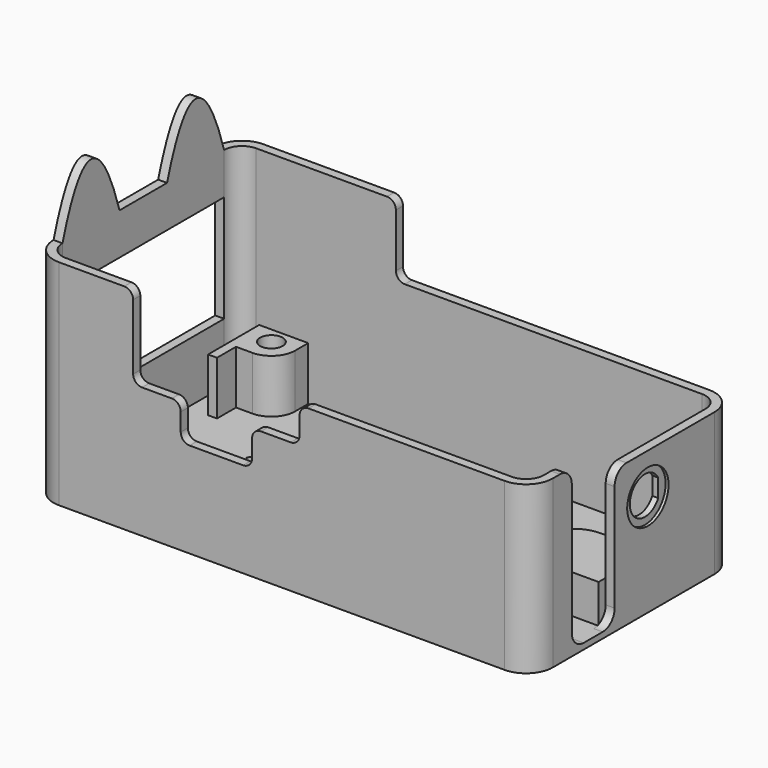
from build123d import *

# Parameters (mm, degrees)
PAD_DEPTH                       = 36
POCKET_DEPTH                    = 35
SKETCH002_R                     = 1.7
PAD001_DEPTH                    = 9
SKETCH011_W                     = 34
SKETCH011_H                     = 18
POCKET002_DEPTH                 = 5
POCKET003_DEPTH                 = 5
POCKET004_DEPTH                 = 6
POCKET005_DEPTH                 = 5
POCKET006_DEPTH                 = 5
SKETCH017_R                     = 4.35
POCKET007_DEPTH                 = 0.5
PAD002_DEPTH                    = 6.5
SKETCH015_R                     = 1.9
POCKET008_DEPTH                 = 4
SKETCH019_R                     = 4
POCKET009_DEPTH                 = 6
POCKET010_DEPTH                 = 5
POCKET010_LINEARPATTERN_2_DEPTH = 5
POCKET010_LINEARPATTERN_3_DEPTH = 5
POCKET010_LINEARPATTERN_4_DEPTH = 5
LINEARPATTERN001_COUNT          = 4
LINEARPATTERN001_PITCH          = 10.333333
FILLET_R                        = 1.5
PAD003_DEPTH                    = 1.5
SKETCH021_R                     = 4.2
POCKET011_DEPTH                 = 4


with BuildPart() as part:
    # Sketch → Pad (new body)
    with BuildSketch(Plane.XY):
        with BuildLine():
            Line((-40, 21.5), (35, 21.5))
            ThreePointArc((39.5, 17), (38.181981, 20.181981), (35, 21.5))
            Line((39.5, 17), (39.5, -17))
            ThreePointArc((35, -21.5), (38.181981, -20.181981), (39.5, -17))
            Line((35, -21.5), (-40, -21.5))
            ThreePointArc((-44.5, -17), (-43.181981, -20.181981), (-40, -21.5))
            Line((-44.5, -17), (-44.5, 17))
            ThreePointArc((-40, 21.5), (-43.181981, 20.181981), (-44.5, 17))
        make_face()
    extrude(amount=PAD_DEPTH)

    # Sketch001 (on Face10 of Pad) → Pocket (cut)
    with BuildSketch(Plane.XY.offset(36)):
        with BuildLine():
            Line((-40, 20), (35, 20))
            ThreePointArc((38, 17), (37.12132, 19.12132), (35, 20))
            Line((38, 17), (38, -17))
            ThreePointArc((35, -20), (37.12132, -19.12132), (38, -17))
            Line((35, -20), (-40, -20))
            ThreePointArc((-43, -17), (-42.12132, -19.12132), (-40, -20))
            Line((-43, -17), (-43, 17))
            ThreePointArc((-40, 20), (-42.12132, 19.12132), (-43, 17))
        make_face()
    extrude(amount=-POCKET_DEPTH, mode=Mode.SUBTRACT)

    # Sketch002 (on Face19 of Pocket) → Pad001 (join)
    with BuildSketch(Plane.XY.offset(1)):
        with BuildLine():
            Line((-39.5, 20), (-31.25, 20))
            Line((-31.25, 20), (-31.25, 17.25))
            ThreePointArc((-35.25, 13.25), (-32.421573, 14.421573), (-31.25, 17.25))
            Line((-35.25, 13.25), (-38, 13.25))
            Line((-38, 13.25), (-38, 9.25))
            Line((-38, 9.25), (-39.5, 9.25))
            Line((-39.5, 9.25), (-39.5, 20))
        make_face()
        with Locations((-35.25, 17.25)):
            Circle(SKETCH002_R, mode=Mode.SUBTRACT)
        with BuildLine():
            Line((35.25, 20), (31.25, 20))
            Line((31.25, 20), (31.25, 17.25))
            ThreePointArc((31.25, 17.25), (32.421573, 14.421573), (35.25, 13.25))
            Line((35.25, 13.25), (38, 13.25))
            Line((38, 13.25), (38, 17.25))
            ThreePointArc((38, 17.25), (37.194544, 19.194544), (35.25, 20))
        make_face()
        with Locations((35.25, 17.25)):
            Circle(SKETCH002_R, mode=Mode.SUBTRACT)
        with BuildLine():
            Line((-38, -13.25), (-35.25, -13.25))
            ThreePointArc((-31.25, -17.25), (-32.421573, -14.421573), (-35.25, -13.25))
            Line((-31.25, -17.25), (-31.25, -20))
            Line((-31.25, -20), (-39.5, -20))
            Line((-39.5, -9.25), (-39.5, -20))
            Line((-38, -9.25), (-39.5, -9.25))
            Line((-38, -13.25), (-38, -9.25))
        make_face()
        with Locations((-35.25, -17.25)):
            Circle(SKETCH002_R, mode=Mode.SUBTRACT)
        with BuildLine():
            Line((35.25, -13.25), (38, -13.25))
            Line((38, -13.25), (38, -17.25))
            ThreePointArc((35.25, -20), (37.194544, -19.194544), (38, -17.25))
            Line((35.25, -20), (31.25, -20))
            Line((31.25, -20), (31.25, -17.25))
            ThreePointArc((35.25, -13.25), (32.421573, -14.421573), (31.25, -17.25))
        make_face()
        with Locations((35.25, -17.25)):
            Circle(SKETCH002_R, mode=Mode.SUBTRACT)
    extrude(amount=PAD001_DEPTH)

    # Sketch011 → Pocket002 (cut)
    with BuildSketch(Plane(origin=(-44.5, 0, 0), x_dir=(0, -1, 0), z_dir=(-1, 0, 0))):
        with Locations((0, 20)):
            Rectangle(SKETCH011_W, SKETCH011_H)
    extrude(amount=-POCKET002_DEPTH, mode=Mode.SUBTRACT)

    # Sketch010 (on Face10 of Pocket002) → Pocket003 (cut)
    with BuildSketch(Plane.XZ.offset(21.5)):
        with BuildLine():
            Line((0.5, 26.5), (0.5, 23.5))
            ThreePointArc((-1, 22), (0.06066, 22.43934), (0.5, 23.5))
            Line((-1, 22), (-6, 22))
            ThreePointArc((-6, 22), (-7.06066, 21.56066), (-7.5, 20.5))
            Line((-7.5, 20.5), (-7.5, 17.5))
            ThreePointArc((-9, 16), (-7.93934, 16.43934), (-7.5, 17.5))
            Line((-9, 16), (-18, 16))
            ThreePointArc((-19.5, 17.5), (-19.06066, 16.43934), (-18, 16))
            Line((-19.5, 17.5), (-19.5, 20.5))
            ThreePointArc((-19.5, 20.5), (-19.93934, 21.56066), (-21, 22))
            Line((-21, 22), (-26, 22))
            ThreePointArc((-27.5, 23.5), (-27.06066, 22.43934), (-26, 22))
            Line((-27.5, 23.5), (-27.5, 36))
            Line((35, 36), (-27.5, 36))
            Line((35, 29.5), (35, 36))
            ThreePointArc((33.5, 28), (34.56066, 28.43934), (35, 29.5))
            Line((2, 28), (33.5, 28))
            ThreePointArc((2, 28), (0.93934, 27.56066), (0.5, 26.5))
        make_face()
    extrude(amount=-POCKET003_DEPTH, mode=Mode.SUBTRACT)

    # Sketch007 → Pocket004 (cut)
    with BuildSketch(Plane.YZ.offset(39.5)):
        with BuildLine():
            Line((-21.5, 36), (21.5, 36))
            Line((21.5, 36), (21.5, 24))
            Line((-1.5, 24), (21.5, 24))
            ThreePointArc((-1.5, 24), (-3.267767, 23.267767), (-4, 21.5))
            Line((-4, 21.5), (-4, 3.5))
            ThreePointArc((-6.5, 1), (-4.732233, 1.732233), (-4, 3.5))
            Line((-6.5, 1), (-10.5, 1))
            ThreePointArc((-13, 3.5), (-12.267767, 1.732233), (-10.5, 1))
            Line((-13, 25.5), (-13, 3.5))
            ThreePointArc((-13, 25.5), (-13.732233, 27.267767), (-15.5, 28))
            Line((-15.5, 28), (-21.5, 28))
            Line((-21.5, 28), (-21.5, 36))
        make_face()
    extrude(amount=-POCKET004_DEPTH, mode=Mode.SUBTRACT)

    # Sketch009 → Pocket005 (cut)
    with BuildSketch(Plane(origin=(0, 21.5, 0), x_dir=(-1, 0, 0), z_dir=(0, 1, 0))):
        with BuildLine():
            Line((-33.5, 36), (16.5, 36))
            Line((16.5, 36), (16.5, 25.5))
            ThreePointArc((15, 24), (16.06066, 24.43934), (16.5, 25.5))
            Line((15, 24), (-33.5, 24))
            Line((-33.5, 24), (-33.5, 36))
        make_face()
    extrude(amount=-POCKET005_DEPTH, mode=Mode.SUBTRACT)

    # Sketch016 (on Face8 of Pocket005) → Pocket006 (cut)
    with BuildSketch(Plane.YZ.offset(39.5)):
        with BuildLine():
            ThreePointArc((5.794, 18.683041), (-0.175, 17.175), (5.794, 15.666959))
            Line((5.794, 18.683041), (5.794, 15.666959))
        make_face()
    extrude(amount=-POCKET006_DEPTH, mode=Mode.SUBTRACT)

    # Sketch017 (on Face8 of Pocket006) → Pocket007 (cut)
    with BuildSketch(Plane.YZ.offset(39.5)):
        with Locations((3, 17.175)):
            Circle(SKETCH017_R)
    extrude(amount=-POCKET007_DEPTH, mode=Mode.SUBTRACT)

    # Sketch018 → Pad002 (join)
    with BuildSketch(Plane.XY.offset(1)):
        with BuildLine():
            ThreePointArc((29.5, 5.5), (24, 0), (29.5, -5.5))
            Line((29.5, -5.5), (38, -5.5))
            Line((38, 5.5), (38, -5.5))
            Line((38, 5.5), (29.5, 5.5))
        make_face()
    extrude(amount=PAD002_DEPTH)

    # Sketch015 (on Face62 of Pad002) → Pocket008 (cut)
    with BuildSketch(Plane.XY.offset(10)):
        with Locations((-35.25, 17.25)):
            Circle(SKETCH015_R)
        with Locations((-35.25, -17.25)):
            Circle(SKETCH015_R)
        with Locations((35.25, -17.25)):
            Circle(SKETCH015_R)
        with Locations((35.25, 17.25)):
            Circle(SKETCH015_R)
    extrude(amount=-POCKET008_DEPTH, mode=Mode.SUBTRACT)

    # Sketch019 (on Face2 of Pocket008) → Pocket009 (cut)
    with BuildSketch(Plane(origin=(0, 0, 0), x_dir=(1, 0, 0), z_dir=(0, 0, -1))):
        with Locations((29.5, 0)):
            Circle(SKETCH019_R)
    extrude(amount=-POCKET009_DEPTH, mode=Mode.SUBTRACT)

    # Sketch013 → Pocket010 (cut)
    with BuildSketch(Plane.XY.offset(1)):
        Polygon((-28, -9), (-26.839746, -11.009619), (-24.519238, -11.009619), (-23.358984, -9), (-24.519238, -6.990381), (-26.839746, -6.990381), align=None)
        Polygon((-18.179492, -6.009619), (-19.339746, -4), (-21.660254, -4), (-22.820508, -6.009619), (-21.660254, -8.019238), (-19.339746, -8.019238), align=None)
        Polygon((-16.480762, -6.990381), (-17.641016, -9), (-16.480762, -11.009619), (-14.160254, -11.009619), (-13, -9), (-14.160254, -6.990381), align=None)
        Polygon((-22.820508, -11.990381), (-21.660254, -14), (-19.339746, -14), (-18.179492, -11.990381), (-19.339746, -9.980762), (-21.660254, -9.980762), align=None)
    pocket010 = extrude(amount=-POCKET010_DEPTH, mode=Mode.SUBTRACT)

    # Sketch013 LinearPattern 2 → Pocket010 LinearPattern 2 (cut)
    with BuildSketch(Plane(origin=(0, 6, 1), x_dir=(1, 0, 0), z_dir=(0, 0, 1))):
        Polygon((-28, -9), (-26.839746, -11.009619), (-24.519238, -11.009619), (-23.358984, -9), (-24.519238, -6.990381), (-26.839746, -6.990381), align=None)
        Polygon((-18.179492, -6.009619), (-19.339746, -4), (-21.660254, -4), (-22.820508, -6.009619), (-21.660254, -8.019238), (-19.339746, -8.019238), align=None)
        Polygon((-16.480762, -6.990381), (-17.641016, -9), (-16.480762, -11.009619), (-14.160254, -11.009619), (-13, -9), (-14.160254, -6.990381), align=None)
        Polygon((-22.820508, -11.990381), (-21.660254, -14), (-19.339746, -14), (-18.179492, -11.990381), (-19.339746, -9.980762), (-21.660254, -9.980762), align=None)
    pocket010_linearpattern_2 = extrude(amount=-POCKET010_LINEARPATTERN_2_DEPTH, mode=Mode.SUBTRACT)

    # Sketch013 LinearPattern 3 → Pocket010 LinearPattern 3 (cut)
    with BuildSketch(Plane(origin=(0, 12, 1), x_dir=(1, 0, 0), z_dir=(0, 0, 1))):
        Polygon((-28, -9), (-26.839746, -11.009619), (-24.519238, -11.009619), (-23.358984, -9), (-24.519238, -6.990381), (-26.839746, -6.990381), align=None)
        Polygon((-18.179492, -6.009619), (-19.339746, -4), (-21.660254, -4), (-22.820508, -6.009619), (-21.660254, -8.019238), (-19.339746, -8.019238), align=None)
        Polygon((-16.480762, -6.990381), (-17.641016, -9), (-16.480762, -11.009619), (-14.160254, -11.009619), (-13, -9), (-14.160254, -6.990381), align=None)
        Polygon((-22.820508, -11.990381), (-21.660254, -14), (-19.339746, -14), (-18.179492, -11.990381), (-19.339746, -9.980762), (-21.660254, -9.980762), align=None)
    pocket010_linearpattern_3 = extrude(amount=-POCKET010_LINEARPATTERN_3_DEPTH, mode=Mode.SUBTRACT)

    # Sketch013 LinearPattern 4 → Pocket010 LinearPattern 4 (cut)
    with BuildSketch(Plane(origin=(0, 18, 1), x_dir=(1, 0, 0), z_dir=(0, 0, 1))):
        Polygon((-28, -9), (-26.839746, -11.009619), (-24.519238, -11.009619), (-23.358984, -9), (-24.519238, -6.990381), (-26.839746, -6.990381), align=None)
        Polygon((-18.179492, -6.009619), (-19.339746, -4), (-21.660254, -4), (-22.820508, -6.009619), (-21.660254, -8.019238), (-19.339746, -8.019238), align=None)
        Polygon((-16.480762, -6.990381), (-17.641016, -9), (-16.480762, -11.009619), (-14.160254, -11.009619), (-13, -9), (-14.160254, -6.990381), align=None)
        Polygon((-22.820508, -11.990381), (-21.660254, -14), (-19.339746, -14), (-18.179492, -11.990381), (-19.339746, -9.980762), (-21.660254, -9.980762), align=None)
    pocket010_linearpattern_4 = extrude(amount=-POCKET010_LINEARPATTERN_4_DEPTH, mode=Mode.SUBTRACT)

    # LinearPattern001: Pocket010, Pocket010 LinearPattern 2, Pocket010 LinearPattern 3, Pocket010 LinearPattern 4 ×4
    with Locations(*[(i * LINEARPATTERN001_PITCH, 0, 0) for i in range(1, LINEARPATTERN001_COUNT)]):
        add(pocket010, mode=Mode.SUBTRACT)
        add(pocket010_linearpattern_2, mode=Mode.SUBTRACT)
        add(pocket010_linearpattern_3, mode=Mode.SUBTRACT)
        add(pocket010_linearpattern_4, mode=Mode.SUBTRACT)

    # Fillet
    fillet_edges = [part.edges().sort_by_distance(p)[0] for p in [
        (-16.5, 20.75, 36),
        (-27.5, -20.75, 36),
    ]]
    fillet(fillet_edges, radius=FILLET_R)

    # Sketch020 (on Face27 of Fillet) → Pad003 (join)
    with BuildSketch(Plane(origin=(-44.5, 0, 0), x_dir=(0, -1, 0), z_dir=(-1, 0, 0))):
        with BuildLine():
            add(Edge.make_bspline(
                [(-17, 36), (-11, 56), (-5, 36)],
                knots=[0, 0, 0, 1, 1, 1], degree=2))
            Line((-5, 36), (-17, 36))
        make_face()
        with BuildLine():
            add(Edge.make_bspline(
                [(5, 36), (11, 56), (17, 36)],
                knots=[0, 0, 0, 1, 1, 1], degree=2))
            Line((17, 36), (5, 36))
        make_face()
    extrude(amount=-PAD003_DEPTH)

    # Sketch021 (on Face2 of Pocket009) → Pocket011 (cut)
    with BuildSketch(Plane(origin=(0, 0, 0), x_dir=(1, 0, 0), z_dir=(0, 0, -1))):
        with Locations((29.5, 0)):
            Circle(SKETCH021_R)
    extrude(amount=-POCKET011_DEPTH, mode=Mode.SUBTRACT)


solid = part.part
